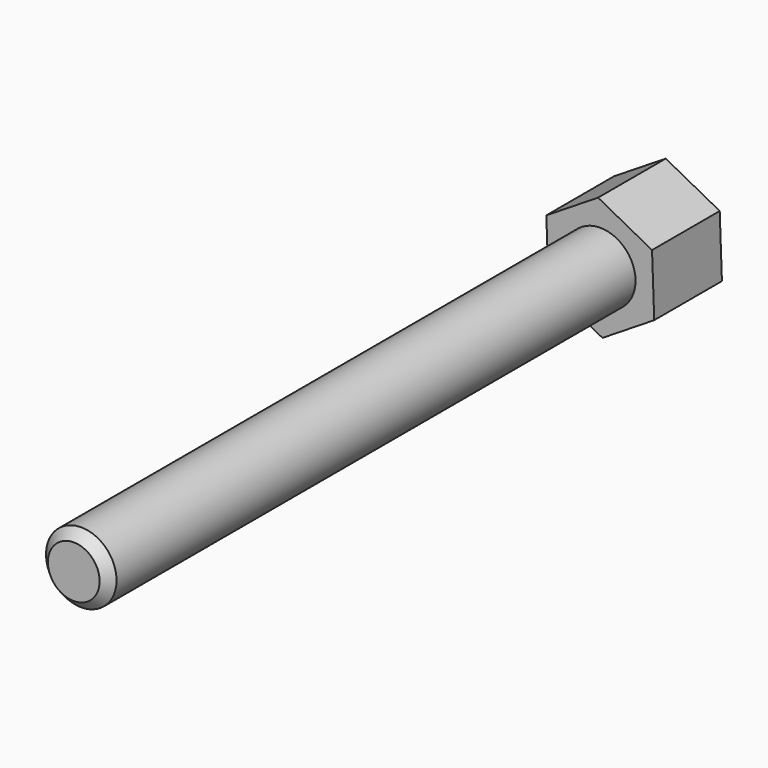
from build123d import *

# Parameters (mm, degrees)
F1_DEPTH = 12.7
F2_R     = 4.7625
F3_DEPTH = 88.9
F4_SIZE  = 1.27


with BuildPart() as f1:
    # F0 (on Front) → F1 (new body)
    with BuildSketch(Plane.XZ):
        Polygon((-0.296798, 8.243551), (-7.287523, 3.864741), (-6.990725, -4.37881), (0.296798, -8.243551), (7.287523, -3.864741), (6.990725, 4.37881), align=None)
        Polygon((-0.296798, 8.243551), (-7.287523, 3.864741), (-6.990725, -4.37881), (0.296798, -8.243551), (7.287523, -3.864741), (6.990725, 4.37881), align=None)
    extrude(amount=-F1_DEPTH)

    # F2 (on Front) → F3 (join)
    with BuildSketch(Plane.XZ):
        Circle(F2_R)
    extrude(amount=F3_DEPTH)

    # F4
    f4_edges = [f1.edges().sort_by_distance(p)[0] for p in [
        (-4.7625, -88.9, 0),
        (-7.139124, 12.7, -0.257035),
        (-3.346964, 12.7, -6.31118),
        (3.792161, 12.7, -6.054146),
        (7.139124, 12.7, 0.257035),
        (3.346964, 12.7, 6.31118),
        (-3.792161, 12.7, 6.054146),
    ]]
    chamfer(f4_edges, length=F4_SIZE)


solid = f1.part
